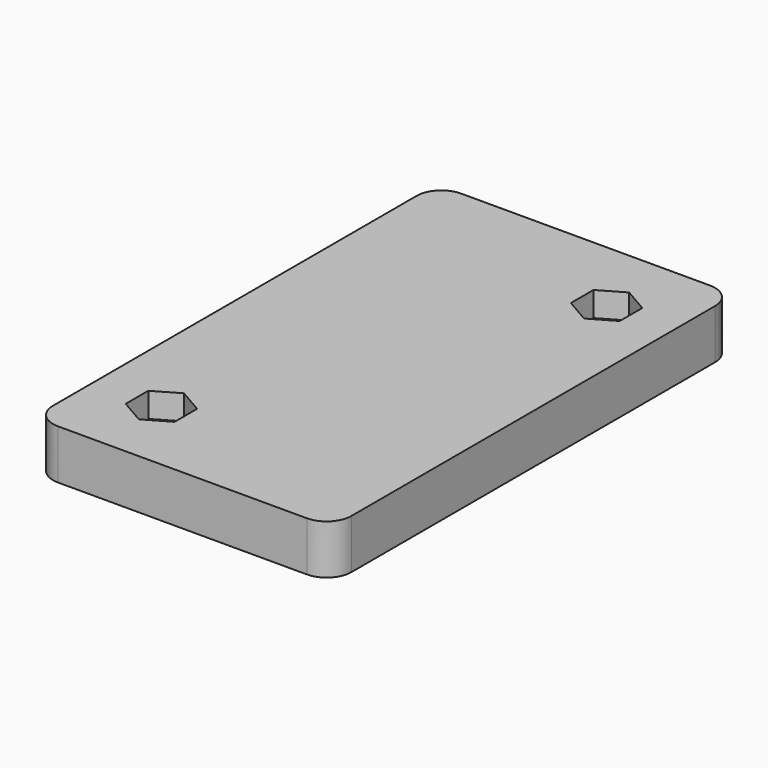
from build123d import *

# Parameters (mm, degrees)
SKETCH_W     = 48.25
SKETCH_H     = 81.5
SKETCH_R     = 2.65
PAD_DEPTH    = 8
POCKET_DEPTH = 4
FILLET_R     = 4


with BuildPart() as part:
    # Sketch → Pad (new body)
    with BuildSketch(Plane.XY):
        Rectangle(SKETCH_W, SKETCH_H)
        with Locations((13.335, 28.32)):
            Circle(SKETCH_R, mode=Mode.SUBTRACT)
        with Locations((-13.335, -28.32)):
            Circle(SKETCH_R, mode=Mode.SUBTRACT)
    extrude(amount=PAD_DEPTH)

    # Sketch001 (on Face8 of Pad) → Pocket (cut)
    with BuildSketch(Plane.XY.offset(8)):
        Polygon((17.285, 26.039466), (17.285, 30.600534), (13.335, 32.881067), (9.385, 30.600534), (9.385, 26.039466), (13.335, 23.758933), align=None)
        Polygon((-9.385, -26.039466), (-13.335, -23.758933), (-17.285, -26.039466), (-17.285, -30.600534), (-13.335, -32.881067), (-9.385, -30.600534), align=None)
    extrude(amount=-POCKET_DEPTH, mode=Mode.SUBTRACT)

    # Fillet
    fillet_edges = [part.edges().sort_by_distance(p)[0] for p in [
        (-24.125, -40.75, 4),
        (24.125, -40.75, 4),
        (24.125, 40.75, 4),
        (-24.125, 40.75, 4),
    ]]
    fillet(fillet_edges, radius=FILLET_R)


solid = part.part
